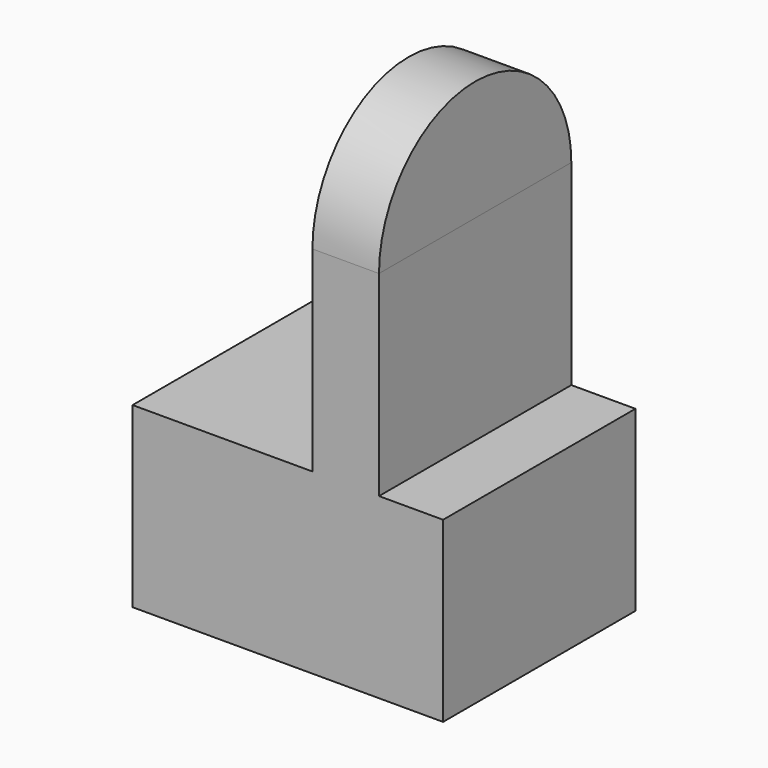
from build123d import *

# Parameters (mm, degrees)
F0_W     = 97.134546
F0_H     = 75.203538
F1_DEPTH = 55.67118
F2_W     = 20.826727
F2_H     = 75.203538
F3_DEPTH = 61.289886
F5_DEPTH = 20.828


with BuildPart() as f1:
    # F0 (on Top) → F1 (new body)
    with BuildSketch(Plane.XY):
        with Locations((7.134177, -0.482738)):
            Rectangle(F0_W, F0_H)
    extrude(amount=F1_DEPTH)

    # F2 (on face) → F3 (join)
    with BuildSketch(Plane.XY.offset(55.67118)):
        with Locations((25.237396, -0.482738)):
            Rectangle(F2_W, F2_H)
    extrude(amount=F3_DEPTH)


with BuildPart() as f5:
    # F4 (on face) → F5 (new body)
    with BuildSketch(Plane(origin=(14.824033, 0, 0), x_dir=(0, -1, 0), z_dir=(-1, 0, 0))):
        with BuildLine():
            Line((-37.119031, 116.961066), (38.084507, 116.961066))
            ThreePointArc((38.084507, 116.961066), (0.482738, 154.562835), (-37.119031, 116.961066))
        make_face()
    extrude(amount=-F5_DEPTH)


solid = Compound([f1.part, f5.part])
